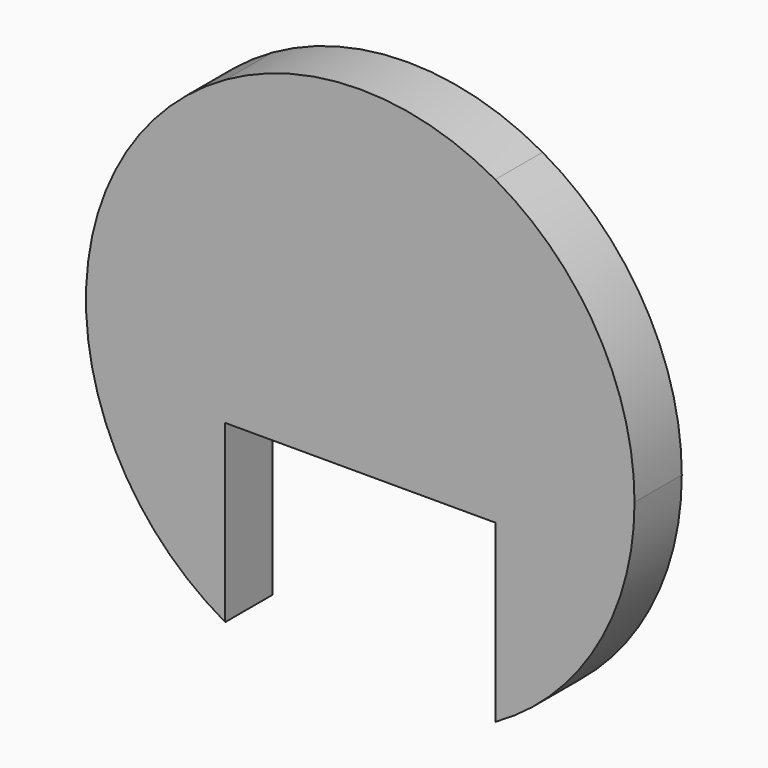
from build123d import *

# Parameters (mm, degrees)
F1_DEPTH = 7


with BuildPart() as f1:
    # F0 (on Front) → F1 (new body)
    with BuildSketch(Plane.XZ):
        with BuildLine():
            Line((-16, -7.5), (-16, 28.2886903196))
            ThreePointArc((-16, 28.2886903196), (-32.5, 0), (-16, -28.2886903196))
            Line((-16, -28.2886903196), (-16, -7.5))
        make_face()
        with BuildLine():
            Line((16, -7.5), (16, 28.2886903196))
            ThreePointArc((16, 28.2886903196), (0, 32.5), (-16, 28.2886903196))
            Line((-16, 28.2886903196), (-16, -7.5))
            Line((-16, -7.5), (16, -7.5))
        make_face()
        with BuildLine():
            ThreePointArc((16, -28.2886903196), (28.0735640773, -16.3745228938), (32.5, 0))
            ThreePointArc((32.5, 0), (28.0735640773, 16.3745228938), (16, 28.2886903196))
            Line((16, 28.2886903196), (16, -7.5))
            Line((16, -7.5), (16, -28.2886903196))
        make_face()
    extrude(amount=F1_DEPTH)


solid = f1.part
